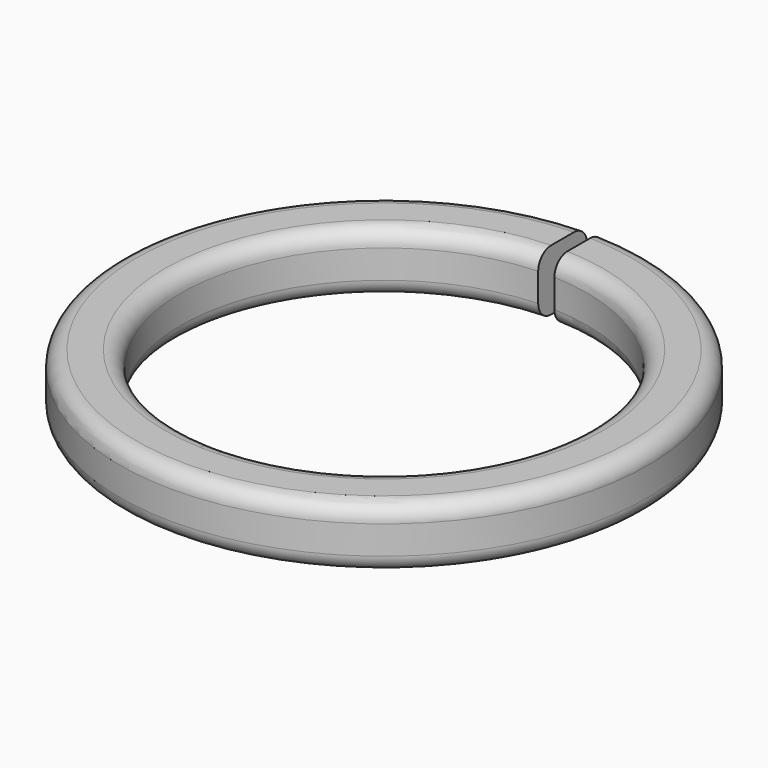
from build123d import *

# Parameters (mm, degrees)
F1_DEPTH = 1.905
F2_R     = 0.508


with BuildPart() as f1:
    # F0 (on Top) → F1 (new body)
    with BuildSketch(Plane.XY):
        with BuildLine():
            ThreePointArc((-0.254, -6.344918), (-6.35, 0), (-0.254, 6.344918))
            Line((-0.254, 6.344918), (-0.254, 8.251091))
            ThreePointArc((-0.254, 8.251091), (0, -8.255), (0.254, 8.251091))
            Line((0.254, 8.251091), (0.254, 6.344918))
            ThreePointArc((0.254, 6.344918), (6.35, 0), (0.254, -6.344918))
            ThreePointArc((0.254, -6.344918), (0, -6.35), (-0.254, -6.344918))
        make_face()
    extrude(amount=F1_DEPTH)

    # F2
    f2_edges = [f1.edges().sort_by_distance(p)[0] for p in [
        (0, -8.255, 1.905),
        (6.344918, -0.254, 0),
        (6.344918, -0.254, 1.905),
        (0, -8.255, 0),
    ]]
    fillet(f2_edges, radius=F2_R)


solid = f1.part
